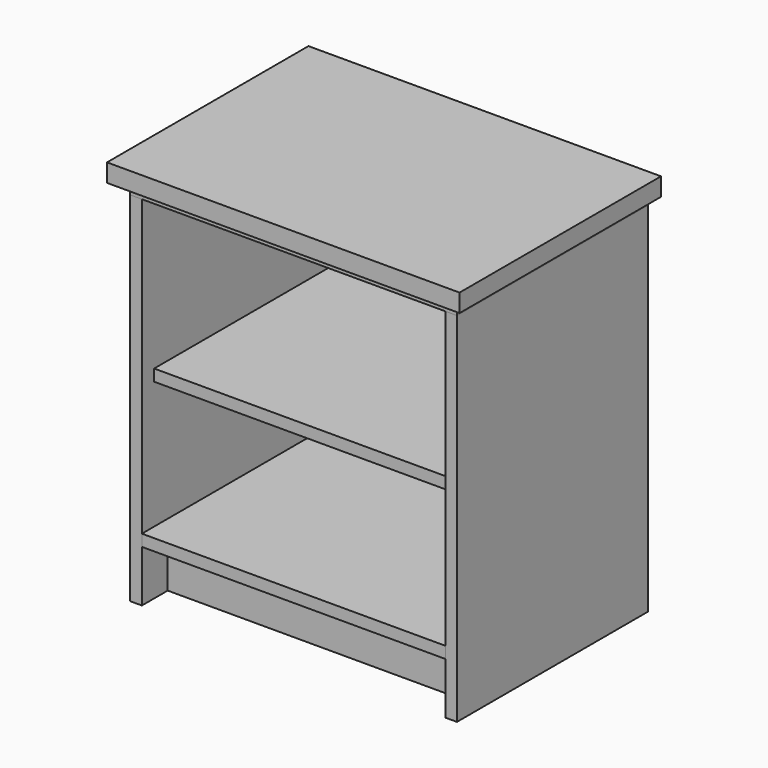
from build123d import *

# Parameters (mm, degrees)
F2_W      = 370
F2_H      = 554
F3_DEPTH  = 18
F5_W      = 370
F5_H      = 554
F6_DEPTH  = 18
F9_W      = 470
F9_H      = 80
F10_DEPTH = 18
F11_W     = 470
F11_H     = 80
F12_DEPTH = 18
F13_W     = 470
F13_H     = 352
F13_H_2   = 18
F14_DEPTH = 18
F15_W     = 488
F15_H     = 370
F15_W_2   = 18
F16_DEPTH = 18
F17_W     = 506
F17_H     = 370
F18_DEPTH = 28
F20_W     = 464
F20_H     = 350
F21_DEPTH = 18
F23_W     = 13
F23_H     = 469
F23_W_2   = 483
F24_DEPTH = 5


with BuildPart() as f3:
    # F2 (on Right) → F3 (new body)
    with BuildSketch(Plane.YZ):
        with Locations((-185, 277)):
            Rectangle(F2_W, F2_H)
    extrude(amount=F3_DEPTH)


with BuildPart() as f6:
    # F5 (on offset) → F6 (new body)
    with BuildSketch(Plane.YZ.offset(488)):
        with Locations((-185, 277)):
            Rectangle(F5_W, F5_H)
    extrude(amount=F6_DEPTH)


with BuildPart() as f10:
    # F9 (on offset) → F10 (new body)
    with BuildSketch(Plane.XZ.offset(320)):
        with Locations((253, 40)):
            Rectangle(F9_W, F9_H)
    extrude(amount=-F10_DEPTH)


with BuildPart() as f12:
    # F11 (on face) → F12 (new body)
    with BuildSketch(Plane(origin=(0, 0, 0), x_dir=(-1, 0, 0), z_dir=(0, 1, 0))):
        with Locations((-253, 40)):
            Rectangle(F11_W, F11_H)
    extrude(amount=-F12_DEPTH)


with BuildPart() as f14:
    # F13 (on face) → F14 (new body)
    with BuildSketch(Plane.XY.offset(80)):
        with Locations((253, -194)):
            Rectangle(F13_W, F13_H)
        with Locations((253, -9)):
            Rectangle(F13_W, F13_H_2)
    extrude(amount=F14_DEPTH)


with BuildPart() as f16:
    # F15 (on face) → F16 (new body)
    with BuildSketch(Plane.XY.offset(554)):
        with Locations((262, -185)):
            Rectangle(F15_W, F15_H)
        with Locations((9, -185)):
            Rectangle(F15_W_2, F15_H)
    extrude(amount=F16_DEPTH)


with BuildPart() as f18:
    # F17 (on face) → F18 (new body)
    with BuildSketch(Plane.XY.offset(572)):
        with Locations((253, -185)):
            Rectangle(F17_W, F17_H)
        Polygon((0, 0), (-20, 0), (-20, -390), (526, -390), (526, 0), (506, 0), (506, -370), (0, -370), align=None)
    extrude(amount=F18_DEPTH)


with BuildPart() as f21:
    # F20 (on offset) → F21 (new body)
    with BuildSketch(Plane.XY.offset(298)):
        with Locations((253, -175)):
            Rectangle(F20_W, F20_H)
    extrude(amount=F21_DEPTH)


with BuildPart() as f24:
    # F23 (on face) → F24 (new body)
    with BuildSketch(Plane(origin=(0, 0, 0), x_dir=(-1, 0, 0), z_dir=(0, 1, 0))):
        with Locations((-11.5, 314.5)):
            Rectangle(F23_W, F23_H)
        with Locations((-259.5, 314.5)):
            Rectangle(F23_W_2, F23_H)
    extrude(amount=F24_DEPTH)


solid = Compound([f3.part, f6.part, f10.part, f12.part, f14.part, f16.part, f18.part, f21.part, f24.part])
